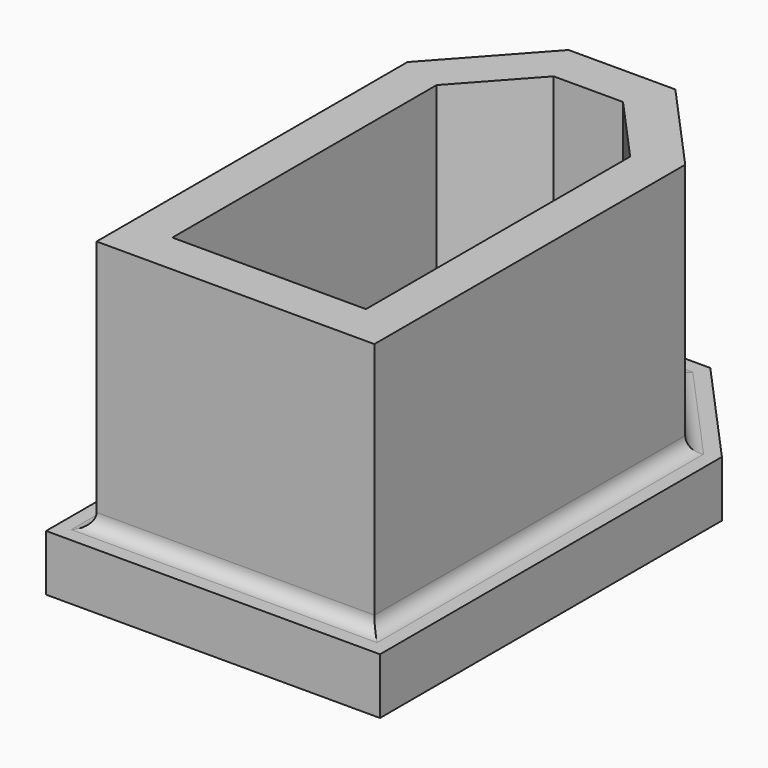
from build123d import *

# Parameters (mm, degrees)
F0_W     = 6.9
F0_H     = 11.77
F1_DEPTH = 2
F2_DEPTH = 11
F3_R     = 0.5


with BuildPart() as f1:
    # F0 (on Top) → F1 (new body)
    with BuildSketch(Plane.XY):
        Polygon((-2.3468033714, 10.8328205479), (-5.95, 6.8476179095), (-5.95, -8.385), (5.95, -8.385), (5.95, 6.8476179095), (2.3468033714, 10.8328205479), align=None)
        Polygon((-4.95, -7.385), (-4.95, 6.4625707457), (-1.9028092228, 9.8328205479), (1.9028092228, 9.8328205479), (4.95, 6.4625707457), (4.95, -7.385), align=None, mode=Mode.SUBTRACT)
        Polygon((-1.9028092228, 9.8328205479), (-4.95, 6.4625707457), (-4.95, -7.385), (4.95, -7.385), (4.95, 6.4625707457), (1.9028092228, 9.8328205479), align=None)
        Polygon((1.236818, 8.3328205479), (3.45, 5.885), (3.45, -5.885), (-3.45, -5.885), (-3.45, 5.885), (-1.236818, 8.3328205479), align=None, mode=Mode.SUBTRACT)
        Polygon((-3.45, 5.885), (3.45, 5.885), (1.236818, 8.3328205479), (-1.236818, 8.3328205479), align=None)
        Rectangle(F0_W, F0_H)
    extrude(amount=F1_DEPTH)

    # F0 (on Top) → F2 (join)
    with BuildSketch(Plane.XY):
        Polygon((-1.9028092228, 9.8328205479), (-4.95, 6.4625707457), (-4.95, -7.385), (4.95, -7.385), (4.95, 6.4625707457), (1.9028092228, 9.8328205479), align=None)
        Polygon((1.236818, 8.3328205479), (3.45, 5.885), (3.45, -5.885), (-3.45, -5.885), (-3.45, 5.885), (-1.236818, 8.3328205479), align=None, mode=Mode.SUBTRACT)
    extrude(amount=F2_DEPTH)

    # F3
    f3_edges = [f1.edges().sort_by_distance(p)[0] for p in [
        (-3.45, 0, 2),
        (-2.343409, 7.10891, 2),
        (0, 8.332821, 2),
        (2.343409, 7.10891, 2),
        (3.45, 0, 2),
        (0, -5.885, 2),
        (0, -7.385, 2),
        (4.95, -0.461215, 2),
        (3.426405, 8.147696, 2),
        (0, 9.832821, 2),
        (-3.426405, 8.147696, 2),
        (-4.95, -0.461215, 2),
    ]]
    fillet(f3_edges, radius=F3_R)


solid = f1.part
